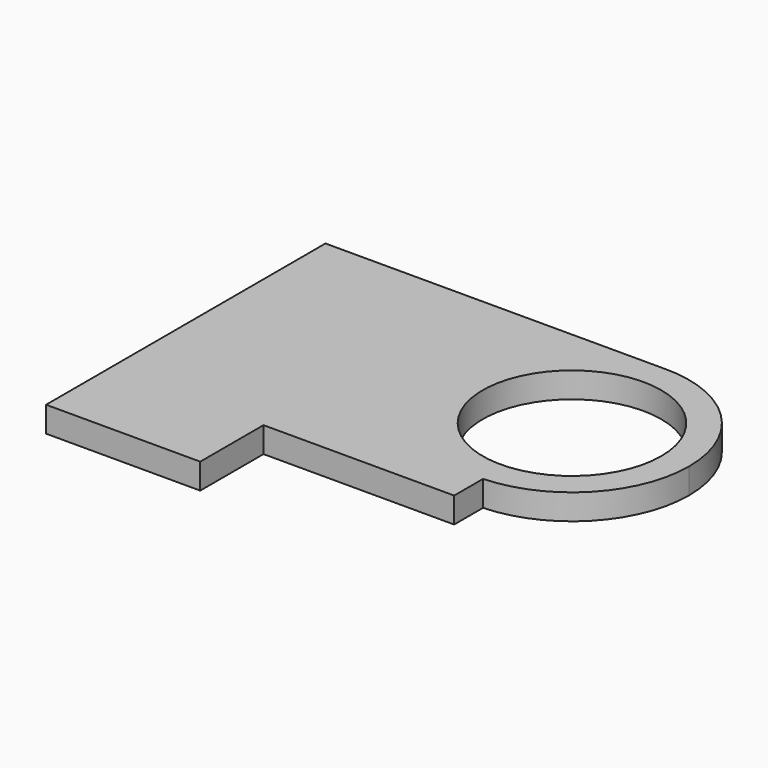
from build123d import *

# Parameters (mm, degrees)
F0_R     = 17.5
F1_DEPTH = 5
F2_W     = 6.4513552934
F2_H     = 36.834217608
F3_DEPTH = 5
F4_W     = 12.2471041977
F4_H     = 55.2336238325
F5_DEPTH = 25
F7_DEPTH = 25
F8_W     = 30.2105266601
F8_H     = 23.1209599674
F9_DEPTH = 25


with BuildPart() as f1:
    # F0 (on Top) → F1 (new body)
    with BuildSketch(Plane.XY):
        with BuildLine():
            Line((0, 50.2336238325), (0, 0))
            Line((0, 0), (60, 0))
            Line((60, 0), (60, 50.2336238325))
            ThreePointArc((60, 50.2336238325), (58.5355339059, 53.7691577384), (55, 55.2336238325))
            Line((55, 55.2336238325), (5, 55.2336238325))
            ThreePointArc((5, 55.2336238325), (1.4644660941, 53.7691577384), (0, 50.2336238325))
        make_face()
        with Locations((30, 30)):
            Circle(F0_R, mode=Mode.SUBTRACT)
    extrude(amount=F1_DEPTH)

    # F2 (on face) → F3 (join)
    with BuildSketch(Plane.XY.offset(5)):
        with Locations((-3.2256776467, 18.417108804)):
            Rectangle(F2_W, F2_H)
        with BuildLine():
            Line((-6.4513552934, 36.834217608), (0, 36.834217608))
            Line((0, 36.834217608), (0, 50.2336238325))
            ThreePointArc((0, 50.2336238325), (1.4644660941, 53.7691577384), (5, 55.2336238325))
            Line((5, 55.2336238325), (-36.6618819535, 55.2336238325))
            Line((-36.6618819535, 55.2336238325), (-36.6618819535, -38.6209599674))
            Line((-36.6618819535, -38.6209599674), (-6.4513552934, -38.6209599674))
            Line((-6.4513552934, -38.6209599674), (-6.4513552934, 0))
            Line((-6.4513552934, 0), (-6.4513552934, 36.834217608))
        make_face()
    extrude(amount=-F3_DEPTH)

    # F4 (on face) → F5 (cut)
    with BuildSketch(Plane.XY.offset(5)):
        with Locations((60.3161063045, 27.6168119162)):
            Rectangle(F4_W, F4_H)
    extrude(amount=-F5_DEPTH, mode=Mode.SUBTRACT)

    # F6 (on face) → F7 (cut)
    with BuildSketch(Plane.XY.offset(5)):
        with BuildLine():
            ThreePointArc((29.3901374458, 52.9360723045), (46.0069133431, 46.4381893869), (52.9441788934, 30))
            ThreePointArc((52.9441788934, 30), (46.542618257, 14.1010337978), (30.910082361, 7.0738774498))
            Line((30.910082361, 7.0738774498), (30.910082361, 0))
            Line((30.910082361, 0), (54.1925542057, 0))
            Line((54.1925542057, 0), (54.1925542057, 55.2336238325))
            Line((54.1925542057, 55.2336238325), (-36.6618819535, 55.2336238325))
            Line((-36.6618819535, 55.2336238325), (-36.6618819535, 52.9360723045))
            Line((-36.6618819535, 52.9360723045), (29.3901374458, 52.9360723045))
        make_face()
    extrude(amount=-F7_DEPTH, mode=Mode.SUBTRACT)

    # F8 (on face) → F9 (cut)
    with BuildSketch(Plane.XY.offset(5)):
        with Locations((-21.5566186234, -27.0604799837)):
            Rectangle(F8_W, F8_H)
    extrude(amount=-F9_DEPTH, mode=Mode.SUBTRACT)


solid = f1.part
